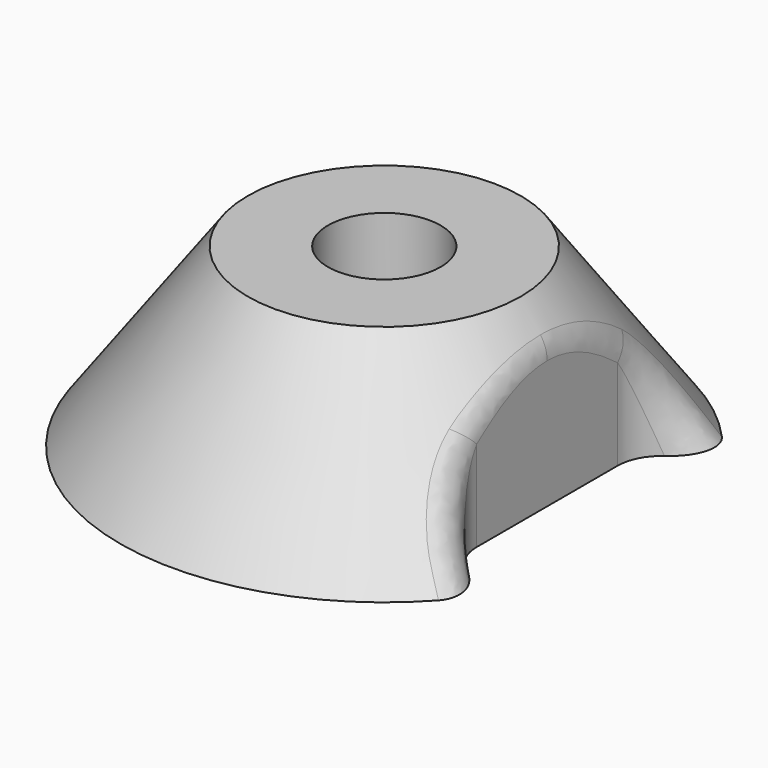
from build123d import *

# Parameters (mm, degrees)
BOX_W          = 20
BOX_H          = 30
BOX_DEPTH      = 40
FILLET_R       = 5
CYLINDER_R     = 6.4
CYLINDER_DEPTH = 40
BOX001_W       = 40
BOX001_H       = 40
BOX001_DEPTH   = 40
FILLET001_R    = 4


with BuildPart() as obj1:
    # Box → Box (new body)
    with BuildSketch(Plane(origin=(18.5, -15, 0), x_dir=(1, 0, 0), z_dir=(0, 0, 1))):
        with Locations((10, 15)):
            Rectangle(BOX_W, BOX_H)
    extrude(amount=BOX_DEPTH)

    # Fillet
    fillet_edges = [obj1.edges().sort_by_distance(p)[0] for p in [
        (18.5, -15, 20),
        (18.5, 15, 20),
    ]]
    fillet(fillet_edges, radius=FILLET_R)


with BuildPart() as cylinder:
    # Cylinder → Cylinder (new body)
    with BuildSketch(Plane.XY):
        Circle(CYLINDER_R)
    extrude(amount=CYLINDER_DEPTH)


with BuildPart() as fusion001:
    # Box001 → Box001 (new body)
    with BuildSketch(Plane(origin=(-20, -20, 20), x_dir=(1, 0, 0), z_dir=(0, 0, 1))):
        with Locations((20, 20)):
            Rectangle(BOX001_W, BOX001_H)
    extrude(amount=BOX001_DEPTH)

    # Fusion: union Cylinder
    add(cylinder.part)

    # Fusion001: union obj1
    add(obj1.part)


with BuildPart() as fillet001:
    # Cone → Cone (revolve)
    with BuildSketch(Plane.XZ):
        Polygon((0, 0), (30, 0), (1, 40), (0, 40), align=None)
    revolve(axis=Axis((0, 0, 0), (0, 0, 1)))

    # Cut: cut Fusion001
    add(fusion001.part, mode=Mode.SUBTRACT)

    # Fillet001
    fillet001_edges = [fillet001.edges().sort_by_distance(p)[0] for p in [
        (18.5, -5.247536, 14.855397),
        (20.110238, -13.675529, 7.835067),
        (20.110238, 13.675529, 7.835067),
        (18.5, 5.247536, 14.855397),
    ]]
    fillet(fillet001_edges, radius=FILLET001_R)


solid = fillet001.part
